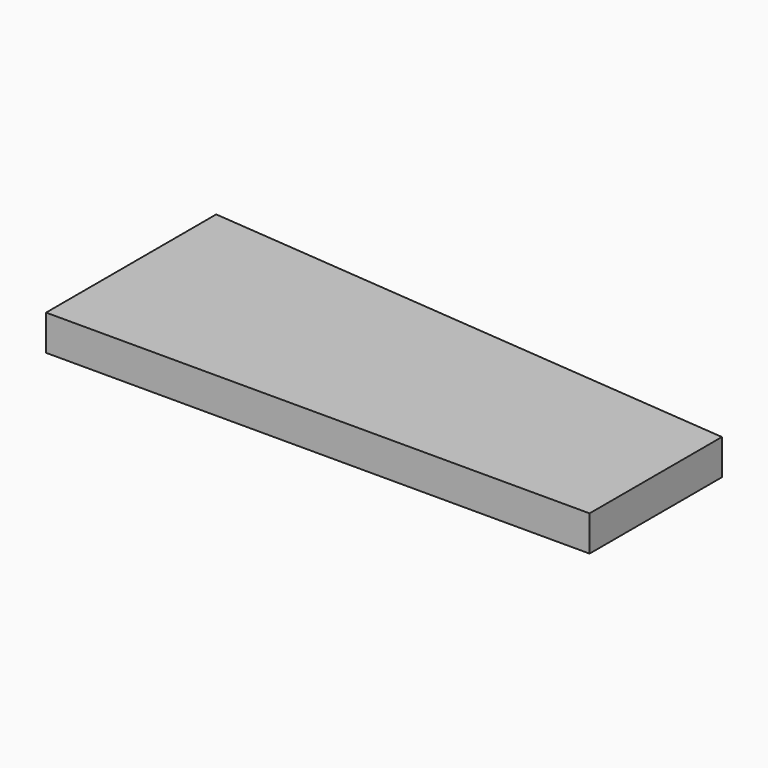
from build123d import *

# Parameters (mm, degrees)
F0_W     = 292.1
F0_H     = 114.3
F1_DEPTH = 19.05
F3_DEPTH = 25.4


with BuildPart() as f1:
    # F0 (on Top) → F1 (new body)
    with BuildSketch(Plane.XY):
        with Locations((146.05, 57.15)):
            Rectangle(F0_W, F0_H)
    extrude(amount=F1_DEPTH)

    # F2 (on face) → F3 (cut)
    with BuildSketch(Plane.XY.offset(19.05)):
        Polygon((292.1, 114.3), (0, 114.3), (292.1, 88.9), align=None)
    extrude(amount=-F3_DEPTH, mode=Mode.SUBTRACT)


solid = f1.part
